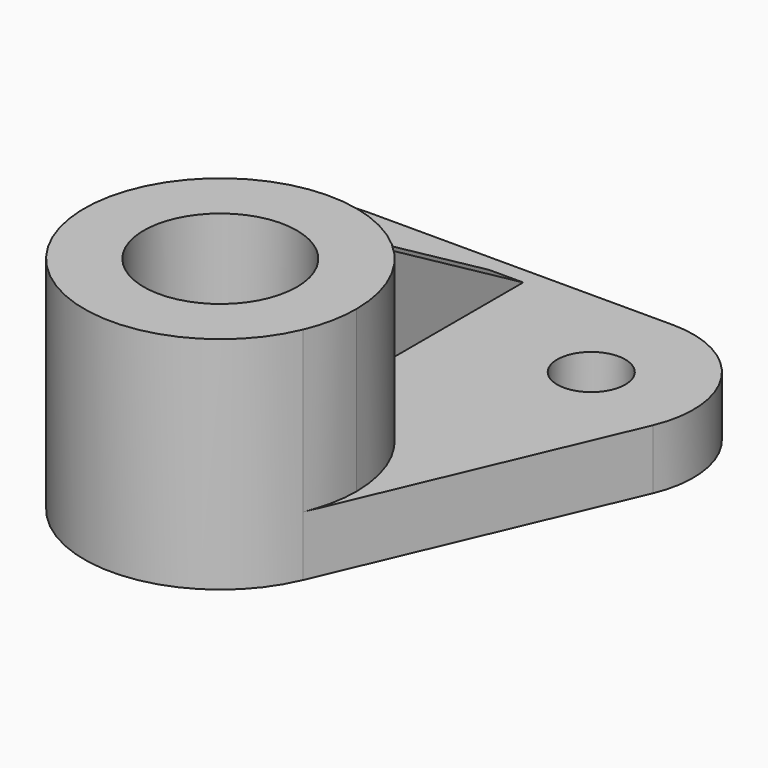
from build123d import *

# Parameters (mm, degrees)
F0_R     = 14.2875
F1_DEPTH = 41.148
F0_R_2   = 6.35
F2_DEPTH = 11.176
F4_DEPTH = 3.175


with BuildPart() as f1:
    # F0 (on Top) → F1 (new body)
    with BuildSketch(Plane.XY):
        with BuildLine():
            ThreePointArc((23.36292, -9.966643), (24.88552, -5.086346), (25.4, 0))
            ThreePointArc((25.4, 0), (-5.086346, 24.88552), (-23.36292, -9.966643))
            ThreePointArc((-23.36292, -9.966643), (0, -25.4), (23.36292, -9.966643))
        make_face()
        Circle(F0_R, mode=Mode.SUBTRACT)
    extrude(amount=F1_DEPTH)

    # F0 (on Top) → F2 (join)
    with BuildSketch(Plane.XY):
        with BuildLine():
            ThreePointArc((-23.36292, -9.966643), (-5.086346, 24.88552), (25.4, 0))
            ThreePointArc((25.4, 0), (24.88552, -5.086346), (23.36292, -9.966643))
            Line((23.36292, -9.966643), (46.09719, 43.325018))
            ThreePointArc((46.09719, 43.325018), (44.469982, 61.300097), (28.575, 69.85))
            Line((28.575, 69.85), (-28.575, 69.85))
            ThreePointArc((-28.575, 69.85), (-44.469982, 61.300097), (-46.09719, 43.325018))
            Line((-46.09719, 43.325018), (-23.36292, -9.966643))
        make_face()
        with Locations((-28.575, 50.8)):
            Circle(F0_R_2, mode=Mode.SUBTRACT)
        with Locations((28.575, 50.8)):
            Circle(F0_R_2, mode=Mode.SUBTRACT)
    extrude(amount=F2_DEPTH)

    # F3 (on Right) → F4 (join, symmetric)
    with BuildSketch(Plane.YZ):
        Polygon((66.675, 11.176), (25.4, 35.006132), (25.4, 11.176), align=None)
        Polygon((25.4, 11.176), (25.4, 35.006132), (22.225, 36.839219), (22.225, 11.176), align=None)
    extrude(amount=F4_DEPTH, both=True)


solid = f1.part
